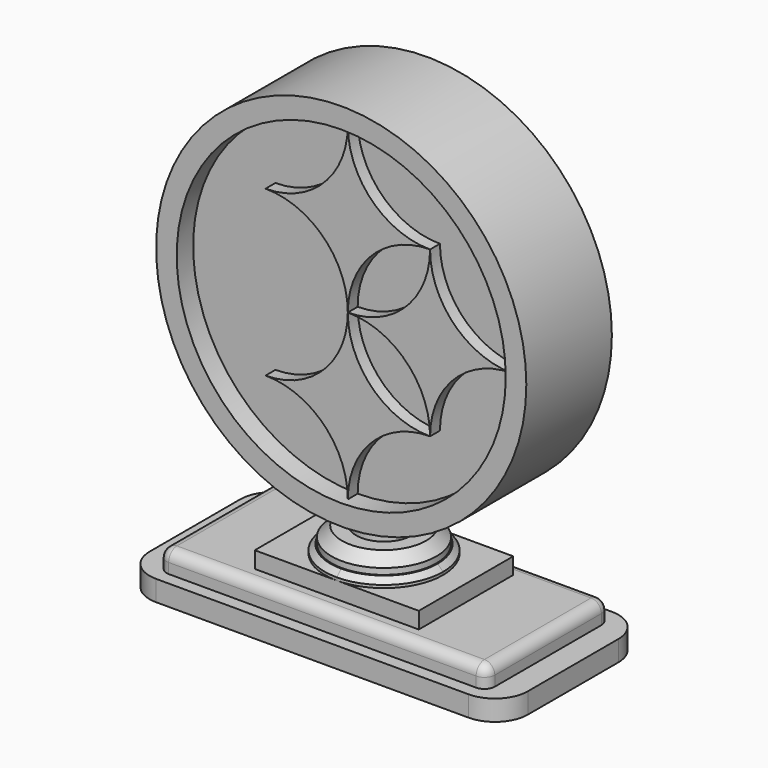
from build123d import *

# Parameters (mm, degrees)
F1_R      = 4.2869666311
F2_DEPTH  = 21.59
F1_R_2    = 8.0943888298
F3_DEPTH  = 12.7
F4_DEPTH  = 10.16
F5_DEPTH  = 8.89
F1_W      = 50.6647676229
F1_H      = 23.7669274211
F6_DEPTH  = 6.35
F1_W_2    = 58.3845302463
F1_H_2    = 27.6268087327
F7_DEPTH  = 3.175
F8_R      = 1.6002
F9_R      = 1.6002
F10_R     = 1.6002
F11_R     = 1.6002
F12_SIZE  = 0.8382
F13_SIZE  = 1.6002
F14_R     = 5.08
F15_R     = 5.08
F16_R     = 5.08
F17_R     = 5.08
F0_R      = 28.575
F18_DEPTH = 8.255
F19_DEPTH = 5.08
F20_DEPTH = 6.985


with BuildPart() as f2:
    # F1 (on Top) → F2 (new body)
    with BuildSketch(Plane.XY):
        Circle(F1_R)
    extrude(amount=F2_DEPTH)

    # F1 (on Top) → F3 (join)
    with BuildSketch(Plane.XY):
        Circle(F1_R_2)
        Circle(F1_R, mode=Mode.SUBTRACT)
    extrude(amount=F3_DEPTH)

    # F1 (on Top) → F4 (join)
    with BuildSketch(Plane.XY):
        with BuildLine():
            ThreePointArc((0, 9.1144200414), (-9.1144200414, -7.9e-09), (1.57e-08, -9.1144200414))
            ThreePointArc((1.57e-08, -9.1144200414), (6.4448682235, -6.4448682123), (9.1144200414, 0))
            ThreePointArc((9.1144200414, 0), (6.4448682179, 6.4448682179), (0, 9.1144200414))
        make_face()
        Circle(F1_R_2, mode=Mode.SUBTRACT)
    extrude(amount=F4_DEPTH)

    # F1 (on Top) → F5 (join)
    with BuildSketch(Plane.XY):
        with BuildLine():
            Line((-12.6619096845, -9.1144200414), (1.57e-08, -9.1144200414))
            ThreePointArc((1.57e-08, -9.1144200414), (-9.1144200414, -7.9e-09), (0, 9.1144200414))
            Line((0, 9.1144200414), (-12.6619096845, 9.1144200414))
            Line((-12.6619096845, 9.1144200414), (-12.6619096845, -9.1144200414))
        make_face()
        with BuildLine():
            Line((1.57e-08, -9.1144200414), (12.6619096845, -9.1144200414))
            Line((12.6619096845, -9.1144200414), (12.6619096845, 9.1144200414))
            Line((12.6619096845, 9.1144200414), (0, 9.1144200414))
            ThreePointArc((0, 9.1144200414), (6.4448682179, 6.4448682179), (9.1144200414, 0))
            ThreePointArc((9.1144200414, 0), (6.4448682235, -6.4448682123), (1.57e-08, -9.1144200414))
        make_face()
    extrude(amount=F5_DEPTH)

    # F1 (on Top) → F6 (join)
    with BuildSketch(Plane.XY):
        Rectangle(F1_W, F1_H)
        Polygon((12.6619096845, 9.1144200414), (12.6619096845, -9.1144200414), (1.57e-08, -9.1144200414), (-12.6619096845, -9.1144200414), (-12.6619096845, 9.1144200414), (0, 9.1144200414), align=None, mode=Mode.SUBTRACT)
    extrude(amount=F6_DEPTH)

    # F1 (on Top) → F7 (join)
    with BuildSketch(Plane.XY):
        Rectangle(F1_W_2, F1_H_2)
        Rectangle(F1_W, F1_H, mode=Mode.SUBTRACT)
    extrude(amount=F7_DEPTH)

    # F8
    f8_edges = [f2.edges().sort_by_distance(p)[0] for p in [
        (0, -11.883464, 6.35),
    ]]
    fillet(f8_edges, radius=F8_R)

    # F9
    f9_edges = [f2.edges().sort_by_distance(p)[0] for p in [
        (-25.332384, 0.8001, 6.35),
    ]]
    fillet(f9_edges, radius=F9_R)

    # F10
    f10_edges = [f2.edges().sort_by_distance(p)[0] for p in [
        (25.332384, 0.8001, 6.35),
    ]]
    fillet(f10_edges, radius=F10_R)

    # F11
    f11_edges = [f2.edges().sort_by_distance(p)[0] for p in [
        (0, 11.883464, 6.35),
    ]]
    fillet(f11_edges, radius=F11_R)

    # F12
    f12_edges = [f2.edges().sort_by_distance(p)[0] for p in [
        (0, 9.11442, 10.16),
    ]]
    chamfer(f12_edges, length=F12_SIZE)

    # F13
    f13_edges = [f2.edges().sort_by_distance(p)[0] for p in [
        (-8.094389, 0, 12.7),
    ]]
    chamfer(f13_edges, length=F13_SIZE)

    # F14
    f14_edges = [f2.edges().sort_by_distance(p)[0] for p in [
        (29.192265, -13.813404, 1.5875),
    ]]
    fillet(f14_edges, radius=F14_R)

    # F15
    f15_edges = [f2.edges().sort_by_distance(p)[0] for p in [
        (-29.192265, -13.813404, 1.5875),
    ]]
    fillet(f15_edges, radius=F15_R)

    # F16
    f16_edges = [f2.edges().sort_by_distance(p)[0] for p in [
        (-29.192265, 13.813404, 1.5875),
    ]]
    fillet(f16_edges, radius=F16_R)

    # F17
    f17_edges = [f2.edges().sort_by_distance(p)[0] for p in [
        (29.192265, 13.813404, 1.5875),
    ]]
    fillet(f17_edges, radius=F17_R)

    # F0 (on Front) → F18 (join, symmetric)
    with BuildSketch(Plane.XZ):
        with Locations((0, 44.45)):
            Circle(F0_R)
        with BuildLine():
            ThreePointArc((0, 69.85), (17.9605122421, 62.4105122421), (25.4, 44.45))
            ThreePointArc((25.4, 44.45), (17.9605122421, 26.4894877579), (0, 19.05))
            ThreePointArc((0, 19.05), (-25.4, 44.45), (0, 69.85))
        make_face(mode=Mode.SUBTRACT)
    extrude(amount=F18_DEPTH, both=True)



with BuildPart() as f19:
    # F0 (on Front) → F19 (new body, symmetric)
    with BuildSketch(Plane.XZ):
        with BuildLine():
            ThreePointArc((0, 44.45), (8.9802561211, 48.1697438789), (12.7, 57.15))
            ThreePointArc((12.7, 57.15), (3.7197438789, 53.4302561211), (0, 44.45))
        make_face()
    extrude(amount=F19_DEPTH, both=True)

    # F0 (on Front) → F19, piece 2 (join, symmetric)
    with BuildSketch(Plane.XZ):
        with BuildLine():
            ThreePointArc((0, 44.45), (3.7197438789, 35.4697438789), (12.7, 31.75))
            ThreePointArc((12.7, 31.75), (8.9802561211, 40.7302561211), (0, 44.45))
        make_face()
    extrude(amount=F19_DEPTH, both=True)


with BuildPart() as f2_1:
    add(f2.part)

    add(f19.part)  # F19#3 merges F19
    # F0 (on Front) → F19, piece 3 (join, symmetric)
    with BuildSketch(Plane.XZ):
        with BuildLine():
            ThreePointArc((-12.7, 57.15), (-3.7197438789, 60.8697438789), (0, 69.85))
            ThreePointArc((0, 69.85), (-25.4, 44.45), (0, 19.05))
            ThreePointArc((0, 19.05), (-3.7197438789, 28.0302561211), (-12.7, 31.75))
            ThreePointArc((-12.7, 31.75), (-3.7197438789, 35.4697438789), (0, 44.45))
            ThreePointArc((0, 44.45), (-3.7197438789, 53.4302561211), (-12.7, 57.15))
        make_face()
        with BuildLine():
            ThreePointArc((0, 19.05), (17.9605122421, 26.4894877579), (25.4, 44.45))
            ThreePointArc((25.4, 44.45), (16.4197438789, 40.7302561211), (12.7, 31.75))
            ThreePointArc((12.7, 31.75), (3.7197438789, 28.0302561211), (0, 19.05))
        make_face()
        with BuildLine():
            ThreePointArc((12.7, 57.15), (16.4197438789, 48.1697438789), (25.4, 44.45))
            ThreePointArc((25.4, 44.45), (17.9605122421, 62.4105122421), (0, 69.85))
            ThreePointArc((0, 69.85), (3.7197438789, 60.8697438789), (12.7, 57.15))
        make_face()
    extrude(amount=F19_DEPTH, both=True)


with BuildPart() as f20:
    # F0 (on Front) → F20 (new body, symmetric)
    with BuildSketch(Plane.XZ):
        with BuildLine():
            ThreePointArc((12.7, 57.15), (3.7197438789, 60.8697438789), (0, 69.85))
            ThreePointArc((0, 69.85), (-3.7197438789, 60.8697438789), (-12.7, 57.15))
            ThreePointArc((-12.7, 57.15), (-3.7197438789, 53.4302561211), (0, 44.45))
            ThreePointArc((0, 44.45), (3.7197438789, 53.4302561211), (12.7, 57.15))
        make_face()
    extrude(amount=F20_DEPTH, both=True)


with BuildPart() as f20b:
    # F0 (on Front) → F20, piece 2 (new body, symmetric)
    with BuildSketch(Plane.XZ):
        with BuildLine():
            ThreePointArc((12.7, 31.75), (16.4197438789, 40.7302561211), (25.4, 44.45))
            ThreePointArc((25.4, 44.45), (16.4197438789, 48.1697438789), (12.7, 57.15))
            ThreePointArc((12.7, 57.15), (8.9802561211, 48.1697438789), (0, 44.45))
            ThreePointArc((0, 44.45), (8.9802561211, 40.7302561211), (12.7, 31.75))
        make_face()
    extrude(amount=F20_DEPTH, both=True)


with BuildPart() as f20c:
    # F0 (on Front) → F20, piece 3 (new body, symmetric)
    with BuildSketch(Plane.XZ):
        with BuildLine():
            ThreePointArc((-12.7, 31.75), (-3.7197438789, 28.0302561211), (0, 19.05))
            ThreePointArc((0, 19.05), (3.7197438789, 28.0302561211), (12.7, 31.75))
            ThreePointArc((12.7, 31.75), (3.7197438789, 35.4697438789), (0, 44.45))
            ThreePointArc((0, 44.45), (-3.7197438789, 35.4697438789), (-12.7, 31.75))
        make_face()
    extrude(amount=F20_DEPTH, both=True)


solid = Compound([f2_1.part, f20.part, f20b.part, f20c.part])
